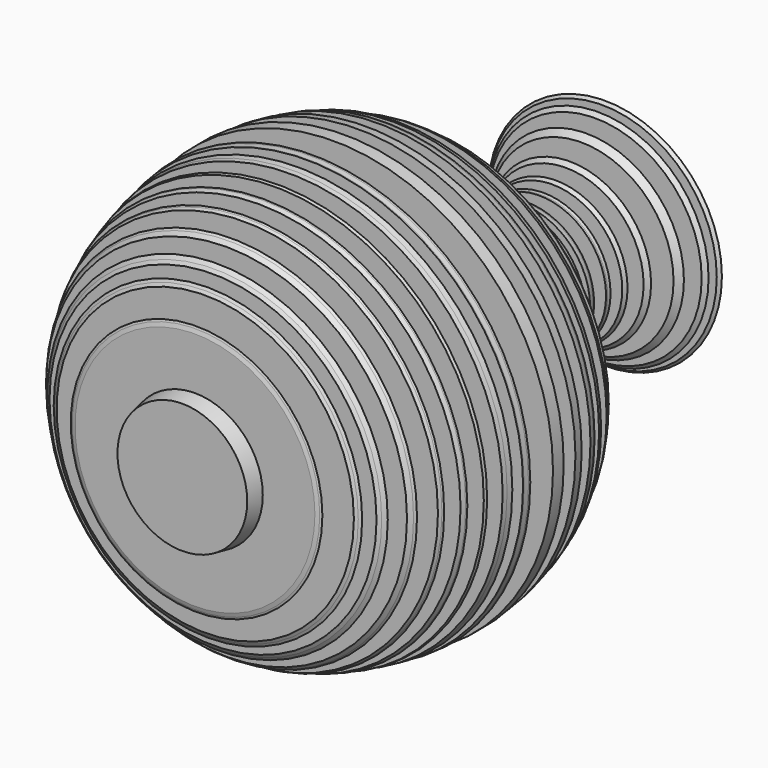
from build123d import *


with BuildPart() as f2:
    # F0 (on Top) → F2 (revolve)
    with BuildSketch(Plane.XY):
        Polygon((0, 9.378116), (0, 0), (24.604948, 0), (25.706446, 5.994941), (45.479894, 5.994941), (46.942912, 6.45127), (47.717456, 6.738137), (25.825249, 6.738137), (26.573369, 10.862892), (56.364384, 10.862892), (57.487395, 11.540667), (58.491852, 12.1359), (26.794957, 12.1359), (27.052034, 13.553292), (27.231239, 14.541335), (62.003512, 14.541335), (63.250378, 15.431428), (64.532876, 16.713921), (27.629765, 16.713921), (28.399006, 20.955124), (68.429738, 20.955124), (69.6574, 22.522839), (70.234209, 23.456283), (28.855346, 23.456283), (29.908466, 29.26265), (73.515236, 29.26265), (74.099392, 30.424284), (74.422076, 31.091657), (30.35906, 31.091657), (31.298541, 36.271477), (76.488361, 36.271477), (77.119462, 37.892114), (77.304818, 38.460255), (31.698201, 38.460255), (32.945067, 44.16668), (78.984402, 44.16668), (79.265952, 45.404524), (33.199325, 45.404524), (33.664483, 47.969166), (34.361847, 51.040873), (80.637857, 51.040873), (80.948345, 52.752745), (81.31466, 54.77242), (35.066795, 54.77242), (35.622962, 57.055045), (35.95968, 58.911538), (82.087442, 58.911538), (82.161032, 59.317274), (82.357049, 61.15666), (82.434862, 61.886843), (36.614653, 61.886843), (39.039336, 71.838244), (83.0843, 71.838244), (83.0843, 75.516842), (83.0843, 76.932549), (39.867867, 77.422731), (40.948308, 83.379733), (82.357049, 83.379733), (81.764966, 87.08635), (41.377679, 87.08635), (41.74902, 90.570949), (42.009386, 93.014168), (80.358267, 93.014168), (79.725832, 95.249459), (79.50262, 96.030705), (42.375591, 96.030705), (42.543257, 97.604053), (42.79562, 99.97218), (78.062922, 99.97218), (77.556342, 101.358041), (77.304818, 101.888739), (42.855736, 101.888739), (42.918192, 107.395157), (42.918192, 109.495983), (73.574463, 109.148265), (72.455429, 111.107185), (42.918192, 111.442211), (42.523887, 115.571633), (69.252551, 115.571633), (66.24417, 118.595034), (42.005457, 118.595034), (41.517783, 121.597573), (39.409656, 127.680138), (56.250583, 127.680138), (54.549944, 128.996819), (53.809993, 129.527852), (38.60588, 129.527852), (37.713028, 131.302819), (36.950387, 132.567689), (49.692087, 132.567689), (47.162347, 134.409189), (35.759922, 134.409189), (33.199325, 137.536392), (42.918192, 137.536392), (41.450825, 138.598174), (40.569924, 139.409781), (31.698201, 139.409781), (29.274845, 141.920537), (37.713028, 141.824827), (35.987534, 143.240124), (27.840512, 143.240124), (25.086587, 145.764545), (33.577848, 145.764545), (32.200888, 147.371009), (22.949941, 147.475938), (19.902222, 150.05295), (30.435741, 150.05295), (29.234551, 152.039543), (17.544426, 152.039543), (15.798809, 153.873503), (15.015064, 154.799744), (27.91124, 154.799744), (26.913745, 157.435983), (13.645455, 157.435983), (13.391357, 157.861903), (13.391357, 159.063086), (13.645455, 161.026582), (25.795961, 161.026582), (25.426364, 162.851468), (25.426364, 163.384512), (14.174428, 163.384512), (16.221292, 169.309467), (25.227502, 169.309467), (25.227502, 170.06506), (25.38457, 171.233371), (16.845074, 171.233371), (18.250721, 175.406411), (26.483802, 175.406411), (27.114909, 177.127615), (18.853141, 177.127615), (20.473117, 181.816533), (29.450566, 181.816533), (30.804308, 183.669016), (21.114364, 183.669016), (23.002477, 189.155236), (34.936786, 189.155236), (36.931772, 191.577718), (23.821849, 191.577718), (25.062887, 195.687234), (40.374566, 195.687234), (41.799556, 197.182268), (25.795961, 197.182268), (26.483802, 199.106008), (43.367047, 199.106008), (44.293292, 200.388506), (23.987159, 200.032249), (20.87367, 200.032249), (8.590471, 157.435983), (9.897195, 153.613403), (15.124086, 148.647845), (26.483802, 136.87174), (33.205751, 127.722636), (36.613557, 120.74475), (38.398597, 109.22312), (36.613557, 96.078731), (32.979747, 81.164822), (19.902222, 27.491957), (15.48874, 9.378116), align=None)
    revolve(axis=Axis((0, 101.371743, 0), (0, 1, 0)))


solid = f2.part
